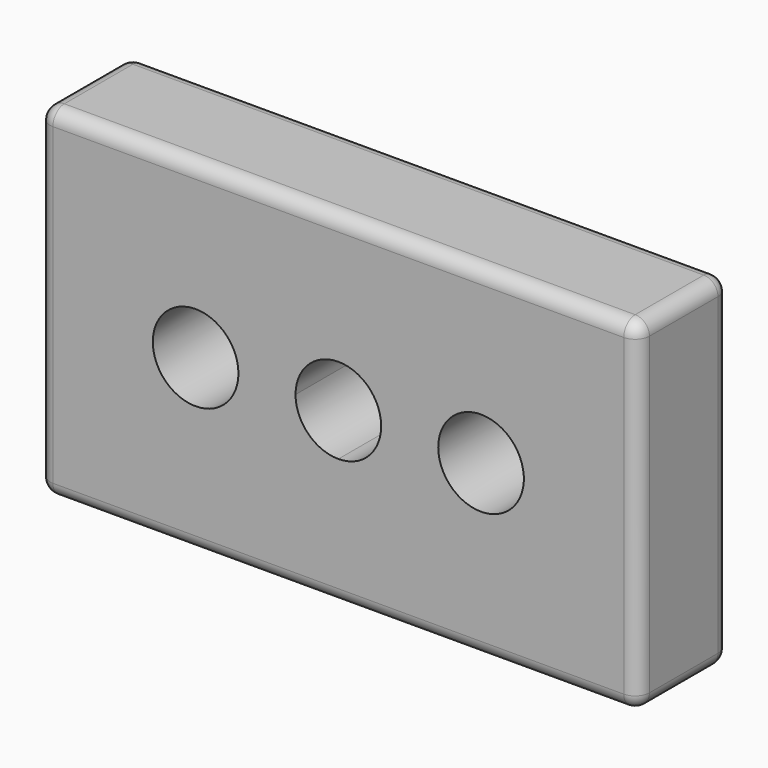
from build123d import *

# Parameters (mm, degrees)
F0_W     = 52.5
F0_H     = 60
F1_DEPTH = 20
F3_DEPTH = 25
F4_R     = 2.5


with BuildPart() as f1:
    # F0 (on Front) → F1 (new body)
    with BuildSketch(Plane.XZ):
        with Locations((26.25, 30)):
            Rectangle(F0_W, F0_H)
        with Locations((-26.25, 30)):
            Rectangle(F0_W, F0_H)
    extrude(amount=F1_DEPTH)

    # F2 (on Front) → F3 (cut)
    with BuildSketch(Plane.XZ):
        with BuildLine():
            ThreePointArc((7.5, 30), (5.303301, 35.303301), (0, 37.5))
            Line((0, 37.5), (0, 30))
            Line((0, 30), (7.5, 30))
        make_face()
        with BuildLine():
            ThreePointArc((32.5, 30), (25, 37.5), (17.5, 30))
            Line((17.5, 30), (25, 30))
            Line((25, 30), (32.5, 30))
        make_face()
        with BuildLine():
            Line((25, 30), (17.5, 30))
            ThreePointArc((17.5, 30), (25, 22.5), (32.5, 30))
            Line((32.5, 30), (25, 30))
        make_face()
        with BuildLine():
            ThreePointArc((-32.5, 30), (-25, 22.5), (-17.5, 30))
            Line((-17.5, 30), (-25, 30))
            Line((-25, 30), (-32.5, 30))
        make_face()
        with BuildLine():
            Line((-25, 30), (-17.5, 30))
            ThreePointArc((-17.5, 30), (-25, 37.5), (-32.5, 30))
            Line((-32.5, 30), (-25, 30))
        make_face()
        with BuildLine():
            Line((0, 30), (0, 37.5))
            ThreePointArc((0, 37.5), (-5.303301, 35.303301), (-7.5, 30))
            Line((-7.5, 30), (0, 30))
        make_face()
        with BuildLine():
            Line((7.5, 30), (0, 30))
            Line((0, 30), (0, 22.5))
            ThreePointArc((0, 22.5), (5.303301, 24.696699), (7.5, 30))
        make_face()
        with BuildLine():
            Line((0, 22.5), (0, 30))
            Line((0, 30), (-7.5, 30))
            ThreePointArc((-7.5, 30), (-5.303301, 24.696699), (0, 22.5))
        make_face()
    extrude(amount=F3_DEPTH, mode=Mode.SUBTRACT)

    # F4
    f4_edges = [f1.edges().sort_by_distance(p)[0] for p in [
        (52.5, -10, 60),
        (0, -20, 60),
        (-52.5, -10, 60),
        (0, 0, 60),
        (52.5, -10, 0),
        (52.5, 0, 30),
        (52.5, -20, 30),
        (0, 0, 0),
        (-52.5, -10, 0),
        (0, -20, 0),
        (-52.5, 0, 30),
        (-52.5, -20, 30),
    ]]
    fillet(f4_edges, radius=F4_R)


solid = f1.part
